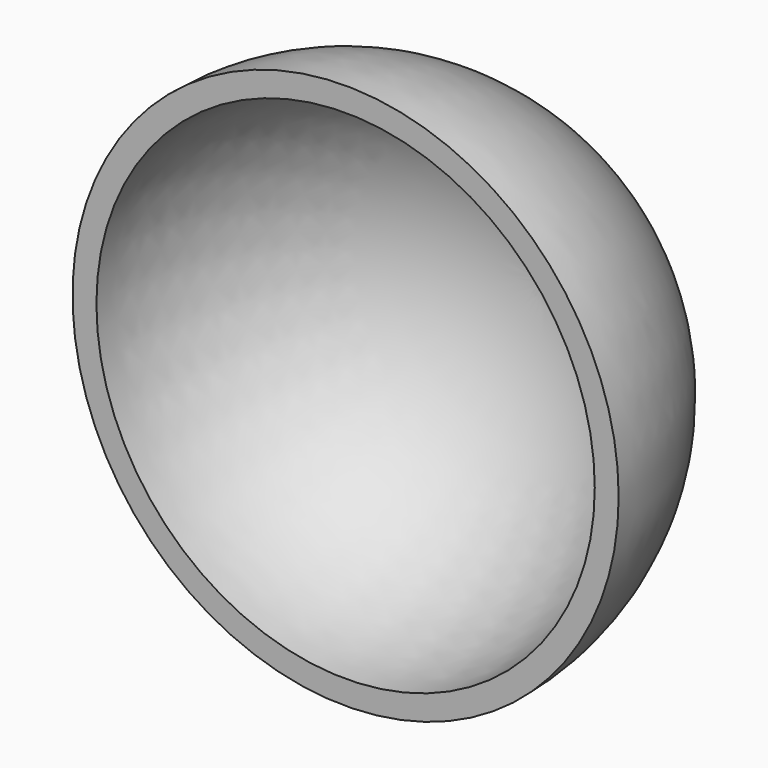
from build123d import *


with BuildPart() as f1:
    # F0 (on Top) → F1 (revolve)
    with BuildSketch(Plane.XY):
        with BuildLine():
            Line((36.5, 0), (40, 0))
            ThreePointArc((40, 0), (28.284271, 28.284271), (0, 40))
            Line((0, 40), (0, 36.5))
            ThreePointArc((0, 36.5), (25.809398, 25.809398), (36.5, 0))
        make_face()
    revolve(axis=Axis((0, 46.551108, 0), (0, -1, 0)))


solid = f1.part
